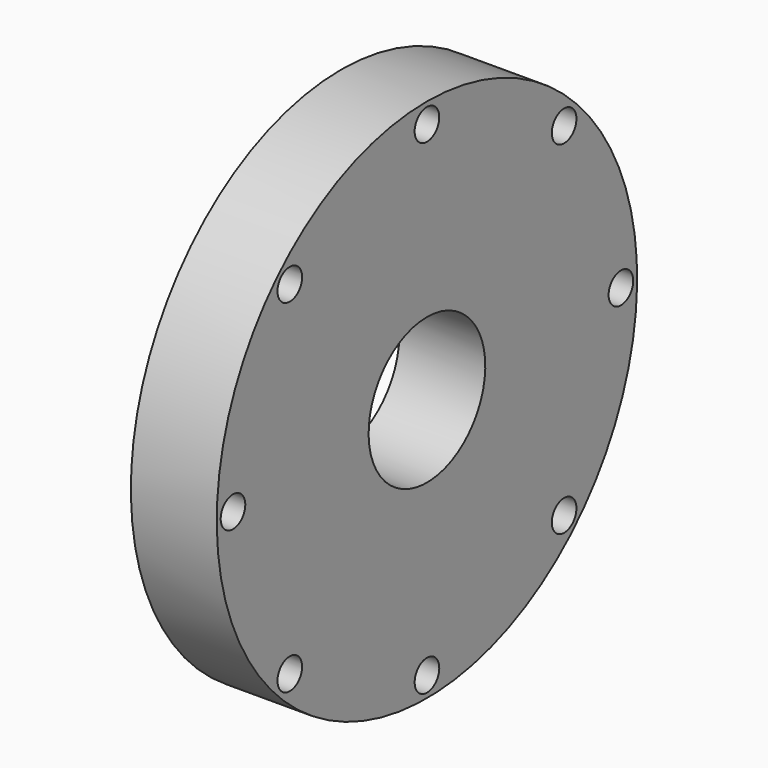
from build123d import *

# Parameters (mm, degrees)
F0_W     = 15.7906897366
F0_H     = 34.8864039406
F3_R     = 2.8270891362
F4_DEPTH = 25.4
F5_COUNT = 8


with BuildPart() as f2:
    # F0 (on Front) → F2 (revolve)
    with BuildSketch(Plane.XZ):
        with Locations((-0.5508437753, 30.8469277807)):
            Rectangle(F0_W, F0_H)
    revolve(axis=Axis((-24.62522313, 0, 0), (-1, 0, 0)))

    # F3 (on face) → F4 (cut)
    with BuildSketch(Plane(origin=(-8.4461886436, 0, 0), x_dir=(0, -1, 0), z_dir=(-1, 0, 0))):
        with Locations((0, 44.5668138564)):
            Circle(F3_R)
    f4 = extrude(amount=-F4_DEPTH, mode=Mode.SUBTRACT)

    # F5: F4 ×8 about axis
    f5_axis = Axis((-8.4461886436, 0, 0), (-1, 0, 0))
    for i in range(1, F5_COUNT):
        add(f4.rotate(f5_axis, i * 360 / F5_COUNT), mode=Mode.SUBTRACT)


solid = f2.part
